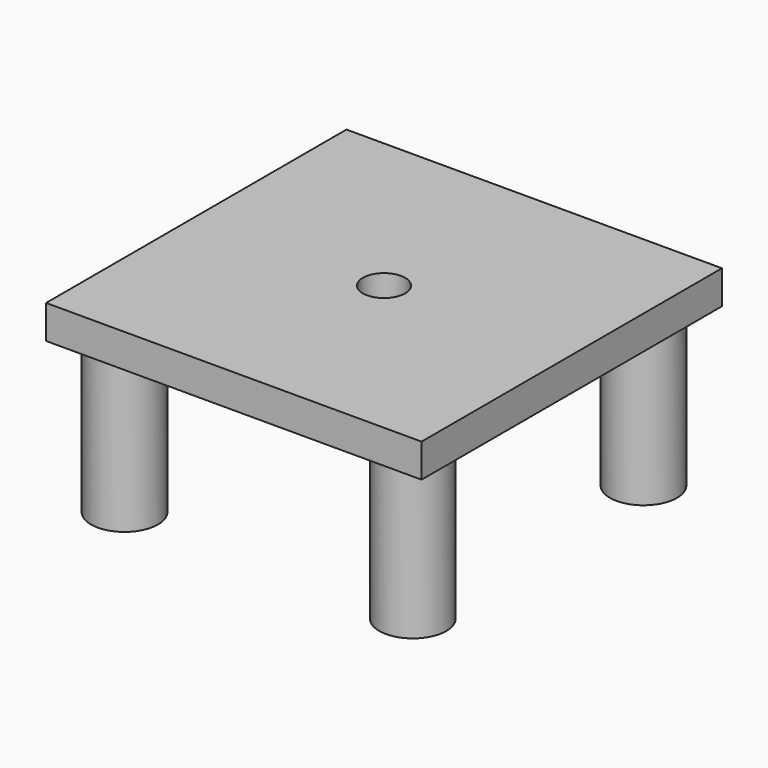
from build123d import *

# Parameters (mm, degrees)
SKETCH_W        = 56
SKETCH_H        = 56
PAD_DEPTH       = 5
SKETCH001_R     = 10
PAD001_DEPTH    = 7.5
SKETCH002_R     = 3.15
POCKET_DEPTH    = 12.501
SKETCH003_R     = 5
PAD002_DEPTH    = 23
SKETCH004_R     = 1.6
POCKET001_DEPTH = 7.5
SKETCH006_R     = 1.6
POCKET002_DEPTH = 7.5
SKETCH007_R     = 1.6
POCKET003_DEPTH = 7.5
SKETCH008_R     = 1.6
POCKET004_DEPTH = 7.5


with BuildPart() as part:
    # Sketch → Pad (new body)
    with BuildSketch(Plane.XY):
        Rectangle(SKETCH_W, SKETCH_H)
    extrude(amount=PAD_DEPTH)

    # Sketch001 (on Face5 of Pad) → Pad001 (join)
    with BuildSketch(Plane(origin=(0, 0, 0), x_dir=(1, 0, 0), z_dir=(0, 0, -1))):
        Circle(SKETCH001_R)
    extrude(amount=PAD001_DEPTH)

    # Sketch002 (on Face8 of Pad001) → Pocket (cut, through all)
    with BuildSketch(Plane(origin=(0, 0, -7.5), x_dir=(1, 0, 0), z_dir=(0, 0, -1))):
        Circle(SKETCH002_R)
    extrude(amount=-POCKET_DEPTH, mode=Mode.SUBTRACT)

    # Sketch003 (on Face4 of Pocket) → Pad002 (join)
    with BuildSketch(Plane(origin=(0, 0, 0), x_dir=(1, 0, 0), z_dir=(0, 0, -1))):
        with Locations((-21.5, 21.5)):
            Circle(SKETCH003_R)
        with Locations((21.5, 21.5)):
            Circle(SKETCH003_R)
        with Locations((-21.5, -21.5)):
            Circle(SKETCH003_R)
        with Locations((21.5, -21.5)):
            Circle(SKETCH003_R)
    extrude(amount=PAD002_DEPTH)

    # Sketch004 (on Face15 of Pad002) → Pocket001 (cut)
    with BuildSketch(Plane(origin=(0, 0, -23), x_dir=(1, 0, 0), z_dir=(0, 0, -1))):
        with Locations((-21.5, 21.5)):
            Circle(SKETCH004_R)
    extrude(amount=-POCKET001_DEPTH, mode=Mode.SUBTRACT)

    # Sketch006 (on Face14 of Pocket001) → Pocket002 (cut)
    with BuildSketch(Plane(origin=(0, 0, -23), x_dir=(1, 0, 0), z_dir=(0, 0, -1))):
        with Locations((21.5, 21.5)):
            Circle(SKETCH006_R)
    extrude(amount=-POCKET002_DEPTH, mode=Mode.SUBTRACT)

    # Sketch007 (on Face15 of Pocket002) → Pocket003 (cut)
    with BuildSketch(Plane(origin=(0, 0, -23), x_dir=(1, 0, 0), z_dir=(0, 0, -1))):
        with Locations((-21.5, -21.5)):
            Circle(SKETCH007_R)
    extrude(amount=-POCKET003_DEPTH, mode=Mode.SUBTRACT)

    # Sketch008 (on Face17 of Pocket003) → Pocket004 (cut)
    with BuildSketch(Plane(origin=(0, 0, -23), x_dir=(1, 0, 0), z_dir=(0, 0, -1))):
        with Locations((21.5, -21.5)):
            Circle(SKETCH008_R)
    extrude(amount=-POCKET004_DEPTH, mode=Mode.SUBTRACT)


solid = part.part
